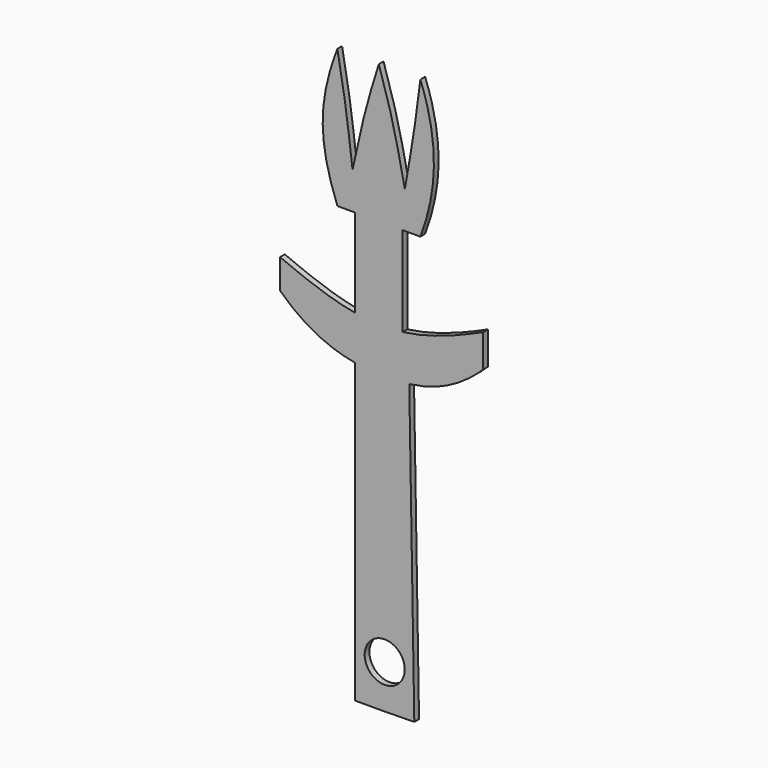
from build123d import *

# Parameters (mm, degrees)
F0_R     = 4.3009235336
F1_DEPTH = 1.27


with BuildPart() as f1:
    # F0 (on Front) → F1 (new body)
    with BuildSketch(Plane.XZ):
        with BuildLine():
            Line((-6.35, 0), (0, 0))
            Line((0, 0), (6.3490810785, 0.1080252686))
            Line((6.3490810785, 0.1080252686), (5.2688283925, 63.5988360536))
            add(Edge.make_bspline(
                [(-6.35, 63.8333058417), (-4.2231685824, 63.4656735081), (-0.3315328284, 63.1981260537), (3.5198606581, 63.3706524244), (5.2688283925, 63.5988360536)],
                knots=[0.3630334453, 0.3630334453, 0.3630334453, 0.3630334453, 0.5079470936, 0.6293569632, 0.6293569632, 0.6293569632, 0.6293569632], degree=3))
            Line((-6.35, 63.8333058417), (-6.35, 0))
        make_face()
        with Locations((0, 9.344831109)):
            Circle(F0_R, mode=Mode.SUBTRACT)
        with BuildLine():
            Line((-10.16, 92.217209102), (-6.35, 92.217209102))
            Line((-6.35, 92.217209102), (3.81, 92.217209102))
            add(Edge.make_bspline(
                [(3.81, 92.217209102), (3.8186450629, 92.2275267888), (3.8272781109, 92.2378795682)],
                knots=[0.5682270645, 0.5682270645, 0.5682270645, 0.5704001399, 0.5704001399, 0.5704001399], degree=2, weights=[1, 0.9999994097, 1]))
            Line((3.8272781109, 92.2378795682), (3.8272781109, 92.217209102))
            Line((3.8272781109, 92.217209102), (3.8445562217, 92.217209102))
            Line((3.8445562217, 92.217209102), (7.6545562217, 92.217209102))
            add(Edge.make_bspline(
                [(7.6545562217, 92.217209102), (9.5394297496, 97.1767714549), (11.5761747812, 107.0887447306), (9.5377207666, 116.9797249494), (7.6545562217, 121.9216488643)],
                knots=[0, 0, 0, 0, 0.5003359375, 1, 1, 1, 1], degree=3))
            add(Edge.make_bspline(
                [(7.6545562217, 121.9216488643), (7.2731291678, 118.8573585817), (6.4562764143, 112.2949700402), (5.0628964284, 104.3512323354), (4.3201514552, 100.1167997863)],
                knots=[0, 0, 0, 0, 0.4669471622, 1, 1, 1, 1], degree=3))
            add(Edge.make_bspline(
                [(-1.2613609446, 121.9216488643), (-0.2872496355, 118.8678317931), (1.7860540092, 112.3680743835), (3.4421486091, 104.3615682107), (4.3201514552, 100.1167997863)],
                knots=[0, 0, 0, 0, 0.4698353694, 1, 1, 1, 1], degree=3))
            add(Edge.make_bspline(
                [(-6.9065201562, 100.1167997863), (-5.9963434616, 104.3608589619), (-4.2802103871, 112.3630057461), (-2.2260614, 118.8670975193), (-1.2613609446, 121.9216488643)],
                knots=[0, 0, 0, 0, 0.5303649727, 1, 1, 1, 1], degree=3))
            add(Edge.make_bspline(
                [(-10.16, 121.9216488643), (-9.5967759067, 118.8623650491), (-8.3941679207, 112.3301191934), (-7.4229057603, 104.3562335812), (-6.9065201562, 100.1167997863)],
                knots=[0, 0, 0, 0, 0.4683355645, 1, 1, 1, 1], degree=3))
            add(Edge.make_bspline(
                [(-10.16, 92.217209102), (-12.0650708017, 97.1767556626), (-14.5644469851, 107.0888485812), (-12.0633598158, 116.9797088874), (-10.16, 121.9216488643)],
                knots=[0, 0, 0, 0, 0.5003337176, 1, 1, 1, 1], degree=3))
        make_face()
        with BuildLine():
            Line((-6.35, 92.2586491744), (-6.35, 92.217209102))
            add(Edge.make_bspline(
                [(-6.3845562217, 92.2586491744), (-6.3673022152, 92.2378589041), (-6.35, 92.217209102)],
                knots=[5.7106090581, 5.7106090581, 5.7106090581, 5.7149582427, 5.7149582427, 5.7149582427], degree=2, weights=[1, 0.9999976356, 1]))
            Line((-6.3845562217, 92.2586491744), (-6.35, 92.2586491744))
        make_face(mode=Mode.SUBTRACT)
        with BuildLine():
            add(Edge.make_bspline(
                [(3.8272781109, 92.2378795682), (3.835923211, 92.2482468005), (3.8445562217, 92.2586491744)],
                knots=[0.5704001399, 0.5704001399, 0.5704001399, 0.5725762491, 0.5725762491, 0.5725762491], degree=2, weights=[1, 0.9999994081, 1]))
            Line((3.8272781109, 92.2378795682), (3.8272781109, 92.2586491744))
            Line((3.8272781109, 92.2586491744), (3.8445562217, 92.2586491744))
        make_face(mode=Mode.SUBTRACT)
        with BuildLine():
            add(Edge.make_bspline(
                [(-22.4678642667, 72.2196217231), (-17.064453701, 67.0688457999), (-11.678076037, 64.7542876416), (-6.35, 63.8333058417)],
                knots=[0, 0, 0, 0, 0.3630334453, 0.3630334453, 0.3630334453, 0.3630334453], degree=3))
            add(Edge.make_bspline(
                [(-6.35, 63.8333058417), (-4.2231685824, 63.4656735081), (-0.3315328284, 63.1981260537), (3.5198606581, 63.3706524244), (5.2688283925, 63.5988360536)],
                knots=[0.3630334453, 0.3630334453, 0.3630334453, 0.3630334453, 0.5079470936, 0.6293569632, 0.6293569632, 0.6293569632, 0.6293569632], degree=3))
            add(Edge.make_bspline(
                [(5.2688283925, 63.5988360536), (10.6081201213, 64.2954406507), (15.8842146578, 66.3856574203), (21.14212726, 71.5218634843)],
                knots=[0.6293569632, 0.6293569632, 0.6293569632, 0.6293569632, 1, 1, 1, 1], degree=3))
            Line((21.14212726, 71.5218634843), (21.14212726, 78.5696217231))
            add(Edge.make_bspline(
                [(3.8272781109, 72.9580112008), (9.6628134484, 73.7140757468), (15.4036678583, 75.9782012049), (21.14212726, 78.5696217231)],
                knots=[0.595240556, 0.595240556, 0.595240556, 0.595240556, 1, 1, 1, 1], degree=3))
            add(Edge.make_bspline(
                [(-6.35, 73.2690403028), (-4.2213889104, 72.8857278835), (-0.8135270629, 72.547277396), (2.5563277012, 72.7933441241), (3.8272781109, 72.9580112008)],
                knots=[0.3623266011, 0.3623266011, 0.3623266011, 0.3623266011, 0.5070859735, 0.595240556, 0.595240556, 0.595240556, 0.595240556], degree=3))
            add(Edge.make_bspline(
                [(-22.4678642667, 78.5696217231), (-17.071903631, 76.2714329461), (-11.6778237405, 74.2284551144), (-6.35, 73.2690403028)],
                knots=[0, 0, 0, 0, 0.3623266011, 0.3623266011, 0.3623266011, 0.3623266011], degree=3))
            Line((-22.4678642667, 78.5696217231), (-22.4678642667, 72.2196217231))
        make_face()
        with BuildLine():
            Line((-6.35, 92.217209102), (-6.35, 73.2690403028))
            add(Edge.make_bspline(
                [(-6.35, 73.2690403028), (-4.2213889104, 72.8857278835), (-0.8135270629, 72.547277396), (2.5563277012, 72.7933441241), (3.8272781109, 72.9580112008)],
                knots=[0.3623266011, 0.3623266011, 0.3623266011, 0.3623266011, 0.5070859735, 0.595240556, 0.595240556, 0.595240556, 0.595240556], degree=3))
            Line((3.8272781109, 72.9580112008), (3.8272781109, 92.217209102))
            Line((3.8272781109, 92.217209102), (3.81, 92.217209102))
            Line((3.81, 92.217209102), (-6.35, 92.217209102))
        make_face()
        with BuildLine():
            add(Edge.make_bspline(
                [(-6.3845562217, 92.2586491744), (-6.3673022152, 92.2378589041), (-6.35, 92.217209102)],
                knots=[5.7106090581, 5.7106090581, 5.7106090581, 5.7149582427, 5.7149582427, 5.7149582427], degree=2, weights=[1, 0.9999976356, 1]))
            Line((-6.35, 92.217209102), (-6.35, 92.2586491744))
            Line((-6.35, 92.2586491744), (-6.3845562217, 92.2586491744))
        make_face()
        with BuildLine():
            Line((3.81, 92.217209102), (3.8272781109, 92.217209102))
            Line((3.8272781109, 92.217209102), (3.8272781109, 92.2378795682))
            add(Edge.make_bspline(
                [(3.81, 92.217209102), (3.8186450629, 92.2275267888), (3.8272781109, 92.2378795682)],
                knots=[0.5682270645, 0.5682270645, 0.5682270645, 0.5704001399, 0.5704001399, 0.5704001399], degree=2, weights=[1, 0.9999994097, 1]))
        make_face()
    extrude(amount=F1_DEPTH)


solid = f1.part
